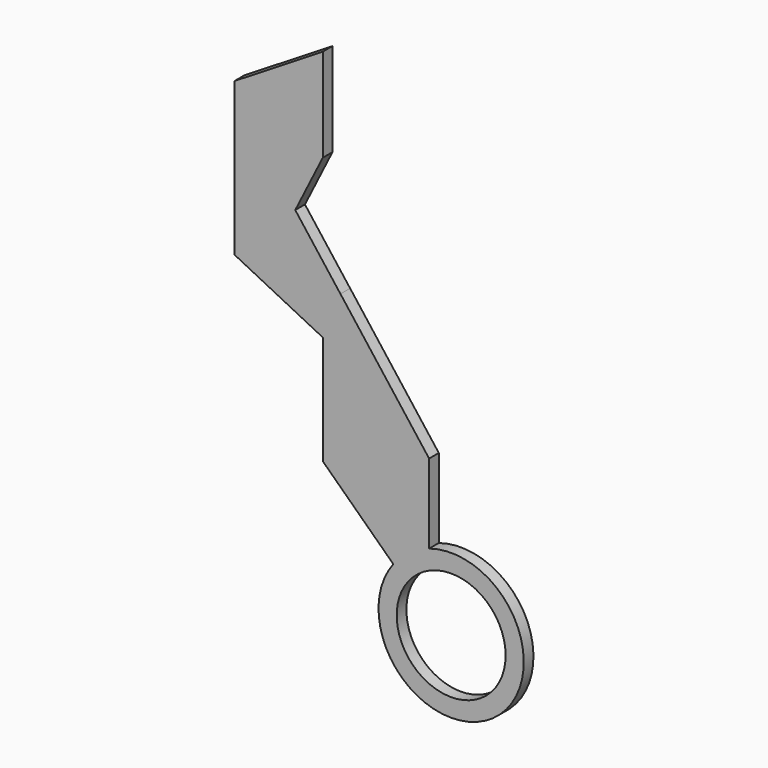
from build123d import *

# Parameters (mm, degrees)
F0_R     = 4.5
F1_DEPTH = 1


with BuildPart() as f1:
    # F0 (on Front) → F1 (new body)
    with BuildSketch(Plane.XZ):
        with BuildLine():
            Line((-10.607143, 9.214287), (-4.78051, 3.625841))
            ThreePointArc((-4.78051, 3.625841), (3.461877, -4.900552), (-1.819782, 5.717377))
            Line((-1.819782, 5.717377), (-1.819782, 12.266138))
            Line((-1.819782, 12.266138), (-9.146367, 21.857144))
            Line((-9.146367, 21.857144), (-12.878571, 26.742858))
            Line((-12.878571, 26.742858), (-10.607143, 31.285714))
            Line((-10.607143, 31.285714), (-10.607143, 39.000001))
            Line((-10.607143, 39.000001), (-17.892858, 34.500003))
            Line((-17.892858, 34.500003), (-17.892858, 21.857144))
            Line((-17.892858, 21.857144), (-10.607143, 18.214287))
            Line((-10.607143, 18.214287), (-10.607143, 9.214287))
        make_face()
        Circle(F0_R, mode=Mode.SUBTRACT)
    extrude(amount=F1_DEPTH)


solid = f1.part
